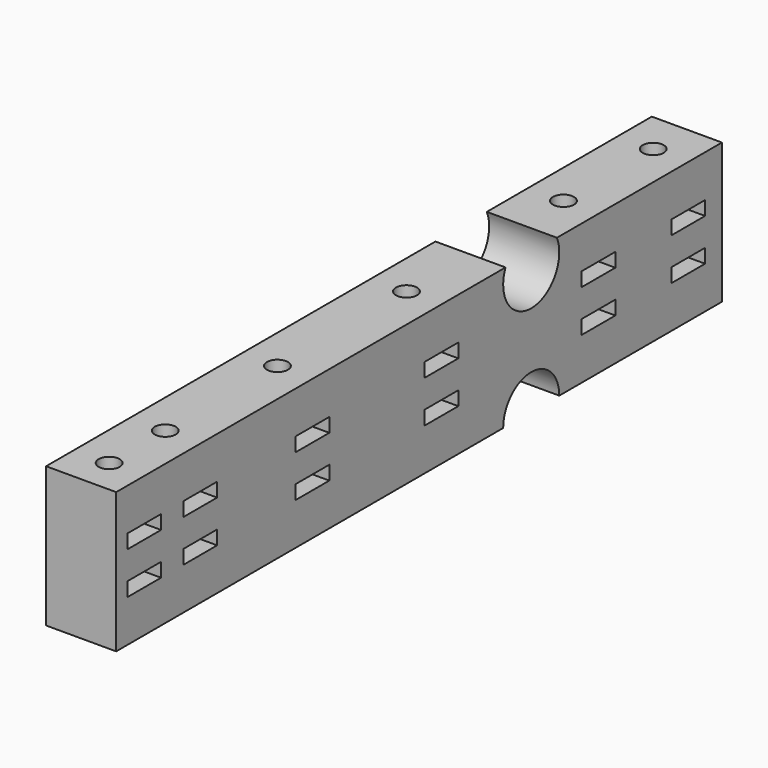
from build123d import *

# Parameters (mm, degrees)
BOX202_W          = 16
BOX202_H          = 6
BOX202_DEPTH      = 2
BOX208_W          = 16
BOX208_H          = 6
BOX208_DEPTH      = 2
BOX206_W          = 16
BOX206_H          = 6
BOX206_DEPTH      = 2
BOX204_W          = 16
BOX204_H          = 6
BOX204_DEPTH      = 2
BOX198_W          = 16
BOX198_H          = 6
BOX198_DEPTH      = 2
BOX209_W          = 16
BOX209_H          = 6
BOX209_DEPTH      = 2
BOX205_W          = 16
BOX205_H          = 6
BOX205_DEPTH      = 2
BOX207_W          = 16
BOX207_H          = 6
BOX207_DEPTH      = 2
BOX200_W          = 16
BOX200_H          = 6
BOX200_DEPTH      = 2
BOX212_W          = 16
BOX212_H          = 6
BOX212_DEPTH      = 2
BOX211_W          = 16
BOX211_H          = 6
BOX211_DEPTH      = 2
BOX203_W          = 16
BOX203_H          = 6
BOX203_DEPTH      = 2
CYLINDER480_R     = 1.5
CYLINDER480_DEPTH = 50
CYLINDER467_R     = 1.5
CYLINDER467_DEPTH = 50
CYLINDER483_R     = 1.5
CYLINDER483_DEPTH = 50
CYLINDER486_R     = 1.5
CYLINDER486_DEPTH = 50
CYLINDER488_R     = 1.5
CYLINDER488_DEPTH = 50
CYLINDER482_R     = 1.5
CYLINDER482_DEPTH = 50
CYLINDER476_R     = 5
CYLINDER476_DEPTH = 100
CYLINDER475_R     = 5
CYLINDER475_DEPTH = 100
CYLINDER461_R     = 5
CYLINDER461_DEPTH = 100
CYLINDER477_R     = 5
CYLINDER477_DEPTH = 100
CYLINDER481_R     = 5
CYLINDER481_DEPTH = 100
CYLINDER478_R     = 5
CYLINDER478_DEPTH = 100
CYLINDER479_R     = 5
CYLINDER479_DEPTH = 100
CYLINDER474_R     = 5
CYLINDER474_DEPTH = 100
BOX201_W          = 10
BOX201_H          = 108
BOX201_DEPTH      = 20


with BuildPart() as krychle202:
    # Box202 → Box202 (new body)
    with BuildSketch(Plane(origin=(60, 2, 16), x_dir=(1, 0, 0), z_dir=(0, 0, 1))):
        with Locations((8, 3)):
            Rectangle(BOX202_W, BOX202_H)
    extrude(amount=BOX202_DEPTH)


with BuildPart() as krychle208:
    # Box208 → Box208 (new body)
    with BuildSketch(Plane(origin=(60, -21, 10), x_dir=(1, 0, 0), z_dir=(0, 0, 1))):
        with Locations((8, 3)):
            Rectangle(BOX208_W, BOX208_H)
    extrude(amount=BOX208_DEPTH)


with BuildPart() as krychle206:
    # Box206 → Box206 (new body)
    with BuildSketch(Plane(origin=(60, -21, 16), x_dir=(1, 0, 0), z_dir=(0, 0, 1))):
        with Locations((8, 3)):
            Rectangle(BOX206_W, BOX206_H)
    extrude(amount=BOX206_DEPTH)


with BuildPart() as krychle204:
    # Box204 → Box204 (new body)
    with BuildSketch(Plane(origin=(60, -41, 10), x_dir=(1, 0, 0), z_dir=(0, 0, 1))):
        with Locations((8, 3)):
            Rectangle(BOX204_W, BOX204_H)
    extrude(amount=BOX204_DEPTH)


with BuildPart() as krychle198:
    # Box198 → Box198 (new body)
    with BuildSketch(Plane(origin=(60, -41, 16), x_dir=(1, 0, 0), z_dir=(0, 0, 1))):
        with Locations((8, 3)):
            Rectangle(BOX198_W, BOX198_H)
    extrude(amount=BOX198_DEPTH)


with BuildPart() as krychle209:
    # Box209 → Box209 (new body)
    with BuildSketch(Plane(origin=(60, -51, 10), x_dir=(1, 0, 0), z_dir=(0, 0, 1))):
        with Locations((8, 3)):
            Rectangle(BOX209_W, BOX209_H)
    extrude(amount=BOX209_DEPTH)


with BuildPart() as krychle205:
    # Box205 → Box205 (new body)
    with BuildSketch(Plane(origin=(60, -51, 16), x_dir=(1, 0, 0), z_dir=(0, 0, 1))):
        with Locations((8, 3)):
            Rectangle(BOX205_W, BOX205_H)
    extrude(amount=BOX205_DEPTH)


with BuildPart() as krychle207:
    # Box207 → Box207 (new body)
    with BuildSketch(Plane(origin=(60, 30, 10), x_dir=(1, 0, 0), z_dir=(0, 0, 1))):
        with Locations((8, 3)):
            Rectangle(BOX207_W, BOX207_H)
    extrude(amount=BOX207_DEPTH)


with BuildPart() as krychle200:
    # Box200 → Box200 (new body)
    with BuildSketch(Plane(origin=(60, 46, 10), x_dir=(1, 0, 0), z_dir=(0, 0, 1))):
        with Locations((8, 3)):
            Rectangle(BOX200_W, BOX200_H)
    extrude(amount=BOX200_DEPTH)


with BuildPart() as krychle212:
    # Box212 → Box212 (new body)
    with BuildSketch(Plane(origin=(60, 30, 16), x_dir=(1, 0, 0), z_dir=(0, 0, 1))):
        with Locations((8, 3)):
            Rectangle(BOX212_W, BOX212_H)
    extrude(amount=BOX212_DEPTH)


with BuildPart() as krychle211:
    # Box211 → Box211 (new body)
    with BuildSketch(Plane(origin=(60, 46, 16), x_dir=(1, 0, 0), z_dir=(0, 0, 1))):
        with Locations((8, 3)):
            Rectangle(BOX211_W, BOX211_H)
    extrude(amount=BOX211_DEPTH)


with BuildPart() as compound592:
    # Box203 → Box203 (new body)
    with BuildSketch(Plane(origin=(60, 2, 10), x_dir=(1, 0, 0), z_dir=(0, 0, 1))):
        with Locations((8, 3)):
            Rectangle(BOX203_W, BOX203_H)
    extrude(amount=BOX203_DEPTH)

    # Compound592: union Krychle202, Krychle208, Krychle206, Krychle204, Krychle198, Krychle209, Krychle205, Krychle207, Krychle200, Krychle212, Krychle211
    add(krychle202.part)
    add(krychle208.part)
    add(krychle206.part)
    add(krychle204.part)
    add(krychle198.part)
    add(krychle209.part)
    add(krychle205.part)
    add(krychle207.part)
    add(krychle200.part)
    add(krychle212.part)
    add(krychle211.part)


with BuildPart() as compound592_1:
    # Compound592 placement: moved
    add(compound592.part.moved(Location((39, 24, 3))))


with BuildPart() as obj1:
    # Cylinder480 → Cylinder480 (new body)
    with BuildSketch(Plane(origin=(63, -18, -12), x_dir=(1, 0, 0), z_dir=(0, 0, 1))):
        Circle(CYLINDER480_R)
    extrude(amount=CYLINDER480_DEPTH)


with BuildPart() as obj2:
    # Cylinder467 → Cylinder467 (new body)
    with BuildSketch(Plane(origin=(63, -38, -12), x_dir=(1, 0, 0), z_dir=(0, 0, 1))):
        Circle(CYLINDER467_R)
    extrude(amount=CYLINDER467_DEPTH)


with BuildPart() as obj3:
    # Cylinder483 → Cylinder483 (new body)
    with BuildSketch(Plane(origin=(63, -48, -12), x_dir=(1, 0, 0), z_dir=(0, 0, 1))):
        Circle(CYLINDER483_R)
    extrude(amount=CYLINDER483_DEPTH)


with BuildPart() as obj4:
    # Cylinder486 → Cylinder486 (new body)
    with BuildSketch(Plane(origin=(63, 33, -12), x_dir=(1, 0, 0), z_dir=(0, 0, 1))):
        Circle(CYLINDER486_R)
    extrude(amount=CYLINDER486_DEPTH)


with BuildPart() as obj5:
    # Cylinder488 → Cylinder488 (new body)
    with BuildSketch(Plane(origin=(63, 49, -12), x_dir=(1, 0, 0), z_dir=(0, 0, 1))):
        Circle(CYLINDER488_R)
    extrude(amount=CYLINDER488_DEPTH)


with BuildPart() as compound593:
    # Cylinder482 → Cylinder482 (new body)
    with BuildSketch(Plane(origin=(63, 5, -12), x_dir=(1, 0, 0), z_dir=(0, 0, 1))):
        Circle(CYLINDER482_R)
    extrude(amount=CYLINDER482_DEPTH)

    # Compound593: union obj1, obj2, obj3, obj4, obj5
    add(obj1.part)
    add(obj2.part)
    add(obj3.part)
    add(obj4.part)
    add(obj5.part)


with BuildPart() as compound593_1:
    # Compound593 placement: moved
    add(compound593.part.moved(Location((39, 24, 0))))


with BuildPart() as obj6:
    # Cylinder476 → Cylinder476 (new body)
    with BuildSketch(Plane(origin=(24, -51, 25), x_dir=(0, 0, -1), z_dir=(1, 0, 0))):
        Circle(CYLINDER476_R)
    extrude(amount=CYLINDER476_DEPTH)


with BuildPart() as obj7:
    # Cylinder475 → Cylinder475 (new body)
    with BuildSketch(Plane(origin=(24, 36, 34), x_dir=(0, 0, -1), z_dir=(1, 0, 0))):
        Circle(CYLINDER475_R)
    extrude(amount=CYLINDER475_DEPTH)


with BuildPart() as obj8:
    # Cylinder461 → Cylinder461 (new body)
    with BuildSketch(Plane(origin=(24, -36, 34), x_dir=(0, 0, -1), z_dir=(1, 0, 0))):
        Circle(CYLINDER461_R)
    extrude(amount=CYLINDER461_DEPTH)


with BuildPart() as obj9:
    # Cylinder477 → Cylinder477 (new body)
    with BuildSketch(Plane(origin=(24, -23, -5), x_dir=(0, 0, -1), z_dir=(1, 0, 0))):
        Circle(CYLINDER477_R)
    extrude(amount=CYLINDER477_DEPTH)


with BuildPart() as obj10:
    # Cylinder481 → Cylinder481 (new body)
    with BuildSketch(Plane(origin=(24, 51, 7), x_dir=(0, 0, -1), z_dir=(1, 0, 0))):
        Circle(CYLINDER481_R)
    extrude(amount=CYLINDER481_DEPTH)


with BuildPart() as obj11:
    # Cylinder478 → Cylinder478 (new body)
    with BuildSketch(Plane(origin=(24, 23, -5), x_dir=(0, 0, -1), z_dir=(1, 0, 0))):
        Circle(CYLINDER478_R)
    extrude(amount=CYLINDER478_DEPTH)


with BuildPart() as obj12:
    # Cylinder479 → Cylinder479 (new body)
    with BuildSketch(Plane(origin=(24, -51, 7), x_dir=(0, 0, -1), z_dir=(1, 0, 0))):
        Circle(CYLINDER479_R)
    extrude(amount=CYLINDER479_DEPTH)


with BuildPart() as compound596:
    # Cylinder474 → Cylinder474 (new body)
    with BuildSketch(Plane(origin=(24, 51, 25), x_dir=(0, 0, -1), z_dir=(1, 0, 0))):
        Circle(CYLINDER474_R)
    extrude(amount=CYLINDER474_DEPTH)

    # Compound596: union obj6, obj7, obj8, obj9, obj10, obj11, obj12
    add(obj6.part)
    add(obj7.part)
    add(obj8.part)
    add(obj9.part)
    add(obj10.part)
    add(obj11.part)
    add(obj12.part)


with BuildPart() as compound596_1:
    # Compound596 placement: moved
    add(compound596.part.moved(Location((24, -6, 0))))


with BuildPart() as cut373:
    # Box201 → Box201 (new body)
    with BuildSketch(Plane(origin=(97, -29, 7), x_dir=(1, 0, 0), z_dir=(0, 0, 1))):
        with Locations((5, 54)):
            Rectangle(BOX201_W, BOX201_H)
    extrude(amount=BOX201_DEPTH)

    # Cut370: cut Compound596
    add(compound596_1.part, mode=Mode.SUBTRACT)

    # Cut372: cut Compound593
    add(compound593_1.part, mode=Mode.SUBTRACT)

    # Cut373: cut Compound592
    add(compound592_1.part, mode=Mode.SUBTRACT)


with BuildPart() as cut373_1:
    # Cut373 placement: moved
    add(cut373.part.moved(Location((8, 6, 0))))


solid = cut373_1.part
